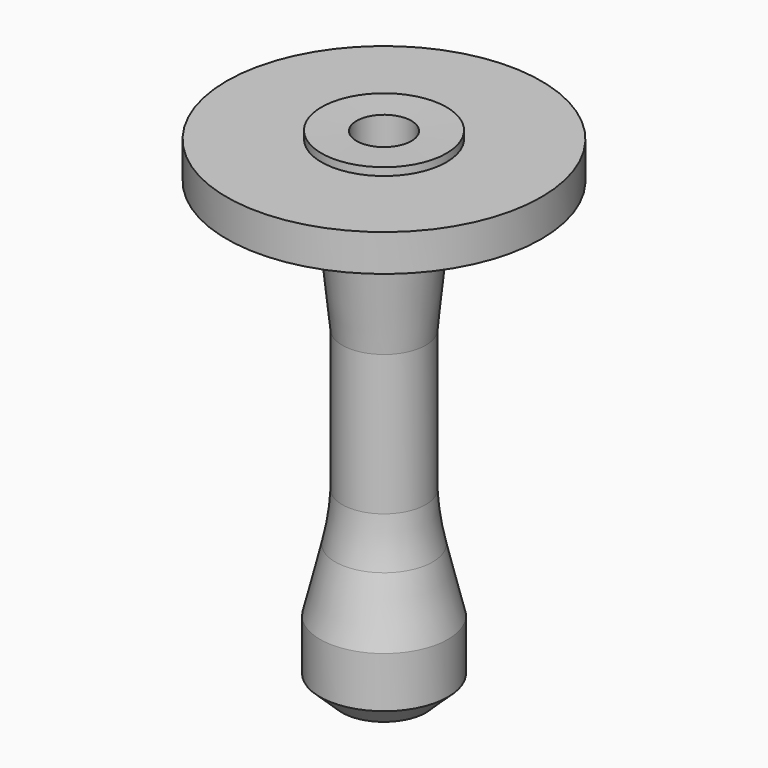
from build123d import *


with BuildPart() as f1:
    # F0 (on Front) → F1 (revolve)
    with BuildSketch(Plane.XZ):
        with BuildLine():
            Line((-5.512861, 50.567072), (-12.721327, 50.440166))
            Line((-12.721327, 50.440166), (-12.721327, -45.461077))
            Line((-12.721327, -45.461077), (-10.906334, -52.084621))
            Line((-10.906334, -52.084621), (-9.713333, -51.757713))
            Line((-9.713333, -51.757713), (-5.205728, -47.478069))
            Line((-5.205728, -47.478069), (-5.205728, -37.064623))
            Line((-5.205728, -37.064623), (-8.348268, -24.129307))
            ThreePointArc((-8.348268, -24.129307), (-9.293465, -19.217544), (-9.76137, -14.237597))
            Line((-9.76137, -14.237597), (-9.76137, 14.535546))
            Line((-9.76137, 14.535546), (-7.231527, 38.962592))
            ThreePointArc((-7.231527, 38.962592), (-5.927004, 40.733404), (-3.833717, 41.408464))
            Line((-3.833717, 41.408464), (13.918695, 41.408464))
            Line((13.918695, 41.408464), (13.918695, 48.971001))
            Line((13.918695, 48.971001), (-5.512861, 48.971001))
            Line((-5.512861, 48.971001), (-5.512861, 50.567072))
        make_face()
    revolve(axis=Axis((-18.336685, 0, -7.719919), (0, 0, -1)))


solid = f1.part
